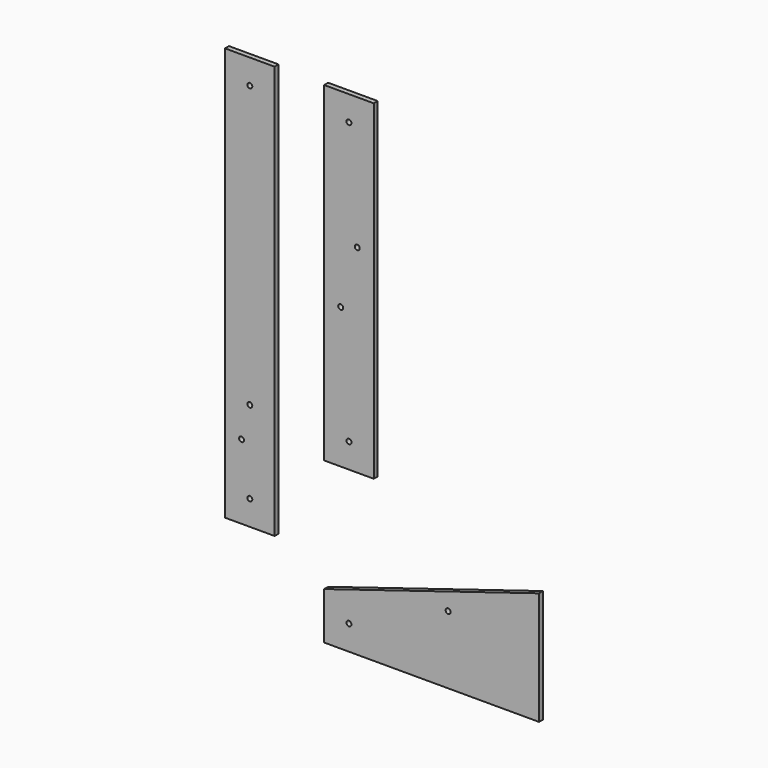
from build123d import *

# Parameters (mm, degrees)
F0_R     = 1.5
F0_W     = 30
F0_H     = 200
F1_DEPTH = 3


with BuildPart() as f1:
    # F0 (on Front) → F1 (new body)
    with BuildSketch(Plane.XZ):
        Polygon((-90, -101.5), (-75, -101.5), (-75, 148.5), (-105, 148.5), (-105, -101.5), align=None)
        with Locations((-90, -86.5)):
            Circle(F0_R, mode=Mode.SUBTRACT)
        with Locations((-95, -56.5)):
            Circle(F0_R, mode=Mode.SUBTRACT)
        with Locations((-90, -36.5)):
            Circle(F0_R, mode=Mode.SUBTRACT)
        with Locations((-90, 133.5)):
            Circle(F0_R, mode=Mode.SUBTRACT)
        with Locations((-30, 48.5)):
            Rectangle(F0_W, F0_H)
        with Locations((-30, -36.5)):
            Circle(F0_R, mode=Mode.SUBTRACT)
        with Locations((-35, 33.5)):
            Circle(F0_R, mode=Mode.SUBTRACT)
        with Locations((-25, 68.5)):
            Circle(F0_R, mode=Mode.SUBTRACT)
        with Locations((-30, 133.5)):
            Circle(F0_R, mode=Mode.SUBTRACT)
        Polygon((-45, -148.5), (85, -148.5), (85, -128.5), (85, -108.5), (85, -88.5), (85, -80), (-45, -120), (-45, -125), align=None)
        with Locations((-30, -133.5)):
            Circle(F0_R, mode=Mode.SUBTRACT)
        with Locations((30, -107.385747)):
            Circle(F0_R, mode=Mode.SUBTRACT)
    extrude(amount=F1_DEPTH)


solid = f1.part
